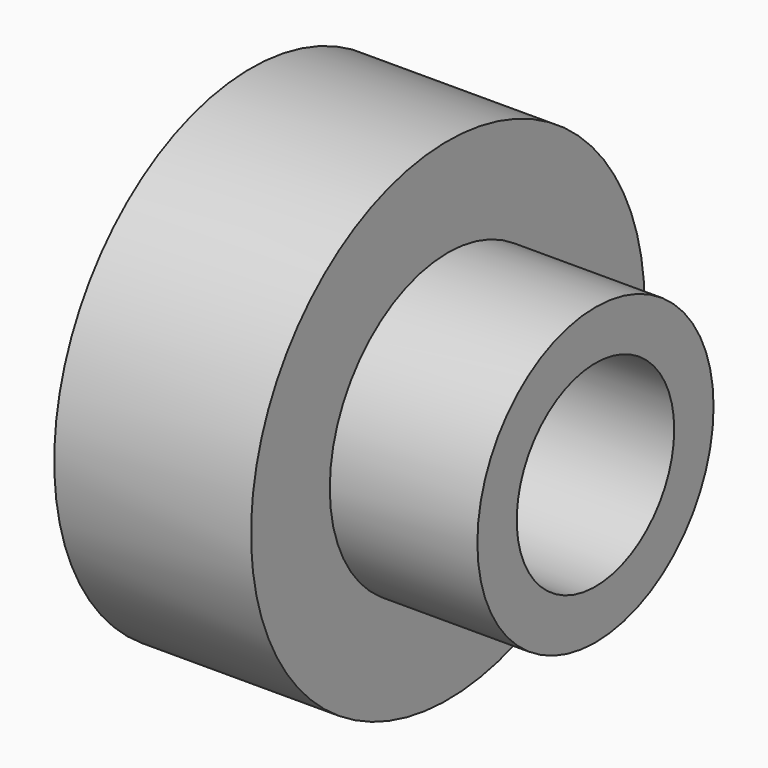
from build123d import *

# Parameters (mm, degrees)
F0_R     = 31.75
F1_DEPTH = 25.4
F2_R     = 19.05
F3_DEPTH = 44.45
F4_R     = 12.7
F5_DEPTH = 44.45


with BuildPart() as f1:
    # F0 (on Right) → F1 (new body)
    with BuildSketch(Plane.YZ):
        Circle(F0_R)
    extrude(amount=F1_DEPTH)

    # F2 (on Right) → F3 (join)
    with BuildSketch(Plane.YZ):
        Circle(F2_R)
    extrude(amount=F3_DEPTH)

    # F4 (on Right) → F5 (cut)
    with BuildSketch(Plane.YZ):
        Circle(F4_R)
    extrude(amount=F5_DEPTH, mode=Mode.SUBTRACT)


solid = f1.part
